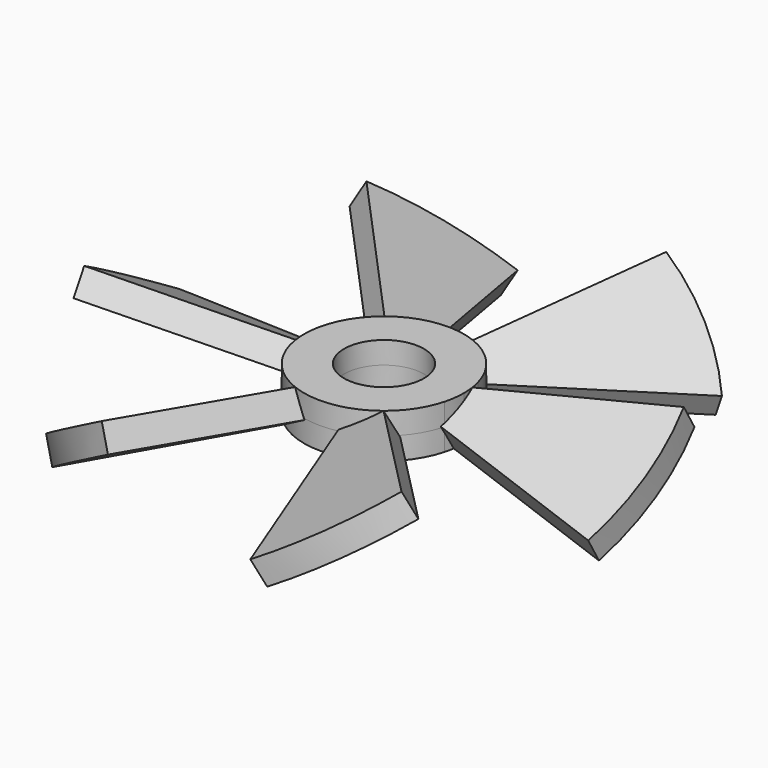
from build123d import *

# Parameters (mm, degrees)
F1_DEPTH      = 5
F2_ANGLE      = 30
F4_COUNT      = 6
F5_DEPTH      = 12.5
F6_DEPTH      = 8.3061645655
F6_DEPTH_BACK = 8.3061645655


with BuildPart() as f1:
    # F0 (on Top) → F1 (new body, symmetric)
    with BuildSketch(Plane.XY):
        with BuildLine():
            ThreePointArc((96.5925826289, -25.8819045103), (99.1444861374, -13.052619222), (100, 0))
            ThreePointArc((100, 0), (99.1444861374, 13.052619222), (96.5925826289, 25.8819045103))
            Line((96.5925826289, 25.8819045103), (28.9777747887, 7.7645713531))
            ThreePointArc((28.9777747887, 7.7645713531), (29.7433458412, 3.9157857666), (30, 0))
            ThreePointArc((30, 0), (29.7433458412, -3.9157857666), (28.9777747887, -7.7645713531))
            Line((28.9777747887, -7.7645713531), (96.5925826289, -25.8819045103))
        make_face()
        with BuildLine():
            ThreePointArc((30, 0), (29.7433458412, 3.9157857666), (28.9777747887, 7.7645713531))
            Line((28.9777747887, 7.7645713531), (14.4888873943, 3.8822856765))
            ThreePointArc((14.4888873943, 3.8822856765), (14.8716729206, 1.9578928833), (15, 0))
            ThreePointArc((15, 0), (14.8716729206, -1.9578928833), (14.4888873943, -3.8822856765))
            Line((14.4888873943, -3.8822856765), (28.9777747887, -7.7645713531))
            ThreePointArc((28.9777747887, -7.7645713531), (29.7433458412, -3.9157857666), (30, 0))
        make_face()
    extrude(amount=F1_DEPTH, both=True)


with BuildPart() as f1_1:
    # F2: moved
    add(f1.part.rotate(Axis((7.5, 0, 0), (1, 0, 0)), F2_ANGLE))


with BuildPart() as f4_1:
    # F4: instance of F1
    add(f1_1.part.rotate(Axis((0, 0, 17.2675196081), (0, 0, 1)), 1 * 360 / F4_COUNT))


with BuildPart() as f4_2:
    # F4: instance of F1
    add(f1_1.part.rotate(Axis((0, 0, 17.2675196081), (0, 0, 1)), 2 * 360 / F4_COUNT))


with BuildPart() as f4_3:
    # F4: instance of F1
    add(f1_1.part.rotate(Axis((0, 0, 17.2675196081), (0, 0, 1)), 3 * 360 / F4_COUNT))


with BuildPart() as f4_4:
    # F4: instance of F1
    add(f1_1.part.rotate(Axis((0, 0, 17.2675196081), (0, 0, 1)), 4 * 360 / F4_COUNT))


with BuildPart() as f4_5:
    # F4: instance of F1
    add(f1_1.part.rotate(Axis((0, 0, 17.2675196081), (0, 0, 1)), 5 * 360 / F4_COUNT))


with BuildPart() as f5_tool:
    # F0 (on Top) → F5 (new body, symmetric)
    with BuildSketch(Plane.XY):
        with BuildLine():
            Line((14.4888873943, 3.8822856765), (28.9777747887, 7.7645713531))
            ThreePointArc((28.9777747887, 7.7645713531), (-30, 0), (28.9777747887, -7.7645713531))
            Line((28.9777747887, -7.7645713531), (14.4888873943, -3.8822856765))
            ThreePointArc((14.4888873943, -3.8822856765), (-15, 0), (14.4888873943, 3.8822856765))
        make_face()
        with BuildLine():
            Line((0, 0), (14.4888873943, 3.8822856765))
            ThreePointArc((14.4888873943, 3.8822856765), (-15, 0), (14.4888873943, -3.8822856765))
            Line((14.4888873943, -3.8822856765), (0, 0))
        make_face()
        with BuildLine():
            ThreePointArc((15, 0), (14.8716729206, 1.9578928833), (14.4888873943, 3.8822856765))
            Line((14.4888873943, 3.8822856765), (0, 0))
            Line((0, 0), (15, 0))
        make_face()
        with BuildLine():
            Line((0, 0), (14.4888873943, -3.8822856765))
            ThreePointArc((14.4888873943, -3.8822856765), (14.8716729206, -1.9578928833), (15, 0))
            Line((15, 0), (0, 0))
        make_face()
        with BuildLine():
            ThreePointArc((30, 0), (29.7433458412, 3.9157857666), (28.9777747887, 7.7645713531))
            Line((28.9777747887, 7.7645713531), (14.4888873943, 3.8822856765))
            ThreePointArc((14.4888873943, 3.8822856765), (14.8716729206, 1.9578928833), (15, 0))
            ThreePointArc((15, 0), (14.8716729206, -1.9578928833), (14.4888873943, -3.8822856765))
            Line((14.4888873943, -3.8822856765), (28.9777747887, -7.7645713531))
            ThreePointArc((28.9777747887, -7.7645713531), (29.7433458412, -3.9157857666), (30, 0))
        make_face()
    extrude(amount=F5_DEPTH, both=True)


with BuildPart() as f1_2:
    add(f1_1.part)

    # F5: cut by f5_tool
    add(f5_tool.part, mode=Mode.SUBTRACT)



with BuildPart() as f4_1_1:
    add(f4_1.part)

    # F5: cut by f5_tool
    add(f5_tool.part, mode=Mode.SUBTRACT)


with BuildPart() as f4_2_1:
    add(f4_2.part)

    # F5: cut by f5_tool
    add(f5_tool.part, mode=Mode.SUBTRACT)


with BuildPart() as f4_3_1:
    add(f4_3.part)

    # F5: cut by f5_tool
    add(f5_tool.part, mode=Mode.SUBTRACT)


with BuildPart() as f4_4_1:
    add(f4_4.part)

    # F5: cut by f5_tool
    add(f5_tool.part, mode=Mode.SUBTRACT)


with BuildPart() as f4_5_1:
    add(f4_5.part)

    # F5: cut by f5_tool
    add(f5_tool.part, mode=Mode.SUBTRACT)


with BuildPart() as f1_3:
    add(f1_2.part)

    add(f4_1_1.part)  # F6 merges F4_1

    add(f4_2_1.part)  # F6 merges F4_2

    add(f4_3_1.part)  # F6 merges F4_3

    add(f4_4_1.part)  # F6 merges F4_4

    add(f4_5_1.part)  # F6 merges F4_5
    # F0 (on Top) → F6 (join, two sides)
    with BuildSketch(Plane.XY) as f6_sk:
        with BuildLine():
            Line((14.4888873943, 3.8822856765), (28.9777747887, 7.7645713531))
            ThreePointArc((28.9777747887, 7.7645713531), (-30, 0), (28.9777747887, -7.7645713531))
            Line((28.9777747887, -7.7645713531), (14.4888873943, -3.8822856765))
            ThreePointArc((14.4888873943, -3.8822856765), (-15, 0), (14.4888873943, 3.8822856765))
        make_face()
        with BuildLine():
            ThreePointArc((30, 0), (29.7433458412, 3.9157857666), (28.9777747887, 7.7645713531))
            Line((28.9777747887, 7.7645713531), (14.4888873943, 3.8822856765))
            ThreePointArc((14.4888873943, 3.8822856765), (14.8716729206, 1.9578928833), (15, 0))
            ThreePointArc((15, 0), (14.8716729206, -1.9578928833), (14.4888873943, -3.8822856765))
            Line((14.4888873943, -3.8822856765), (28.9777747887, -7.7645713531))
            ThreePointArc((28.9777747887, -7.7645713531), (29.7433458412, -3.9157857666), (30, 0))
        make_face()
    extrude(amount=-F6_DEPTH)
    extrude(f6_sk.sketch, amount=F6_DEPTH_BACK)


solid = f1_3.part
